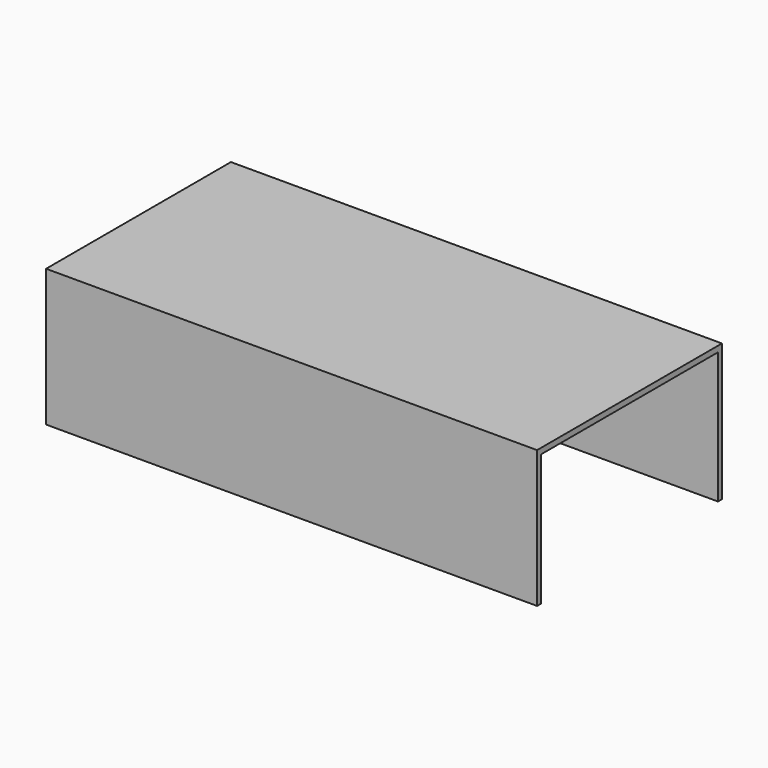
from build123d import *

# Parameters (mm, degrees)
F1_DEPTH  = 43.5
F2_W      = 170
F2_H      = 80
F3_DEPTH  = 4
F5_DEPTH  = 25
F6_W      = 25
F6_H      = 2
F7_DEPTH  = 43.5
F9_DEPTH  = 25
F10_W     = 25
F10_H     = 0.3
F11_DEPTH = 18.5
F13_DEPTH = 18.5
F14_W     = 25
F14_H     = 0.3
F15_DEPTH = 18.5
F16_W     = 76.6
F16_H     = 2
F17_DEPTH = 25


with BuildPart() as f1:
    # F0 (on Top) → F1 (new body)
    with BuildSketch(Plane.XY):
        Polygon((-166, 0), (-166, 36), (0, 36), (0, 40), (-170, 40), (-170, -40), (0, -40), (0, -36), (-166, -36), align=None)
    extrude(amount=F1_DEPTH)

    # F2 (on face) → F3 (join)
    with BuildSketch(Plane.XY.offset(43.5)):
        with Locations((-85, 0)):
            Rectangle(F2_W, F2_H)
    extrude(amount=F3_DEPTH)

    # F4 (on face) → F5 (cut)
    with BuildSketch(Plane.XY):
        Polygon((0, -36), (-166, -36), (-166, 0), (-166, 36), (0, 36), (0, 38), (-168, 38), (-168, -38), (0, -38), align=None)
    extrude(amount=F5_DEPTH, mode=Mode.SUBTRACT)

    # F6 (on face) → F7 (cut)
    with BuildSketch(Plane.XY):
        with Locations((-12.5, -37)):
            Rectangle(F6_W, F6_H)
        with Locations((-12.5, 37)):
            Rectangle(F6_W, F6_H)
        with Locations((-12.5, 37)):
            Rectangle(F6_W, F6_H)
    extrude(amount=F7_DEPTH, mode=Mode.SUBTRACT)

    # F8 (on face) → F9 (cut)
    with BuildSketch(Plane(origin=(0, 0, 0), x_dir=(1, 0, 0), z_dir=(0, 0, -1))):
        Polygon((-168, -38), (-168, 38), (0, 38), (0, 38.3), (-168.3, 38.3), (-168.3, -38.3), (0, -38.3), (0, -38), align=None)
    extrude(amount=-F9_DEPTH, mode=Mode.SUBTRACT)

    # F10 (on face) → F11 (cut)
    with BuildSketch(Plane(origin=(0, 0, 25), x_dir=(1, 0, 0), z_dir=(0, 0, -1))):
        with Locations((-12.5, 38.15)):
            Rectangle(F10_W, F10_H)
    extrude(amount=-F11_DEPTH, mode=Mode.SUBTRACT)

    # F12 (on face) → F13 (cut)
    with BuildSketch(Plane(origin=(0, 0, 25), x_dir=(1, 0, 0), z_dir=(0, 0, -1))):
        Polygon((-166, -36), (-166, 36), (-25, 36), (-25, 36.3), (-166.3, 36.3), (-166.3, -36.3), (-25, -36.3), (-25, -36), align=None)
    extrude(amount=-F13_DEPTH, mode=Mode.SUBTRACT)

    # F14 (on face) → F15 (cut)
    with BuildSketch(Plane(origin=(0, 0, 25), x_dir=(1, 0, 0), z_dir=(0, 0, -1))):
        with Locations((-12.5, -38.15)):
            Rectangle(F14_W, F14_H)
    extrude(amount=-F15_DEPTH, mode=Mode.SUBTRACT)

    # F16 (on face) → F17 (cut)
    with BuildSketch(Plane.YZ):
        with Locations((0, 44.5)):
            Rectangle(F16_W, F16_H)
    extrude(amount=-F17_DEPTH, mode=Mode.SUBTRACT)


solid = f1.part
